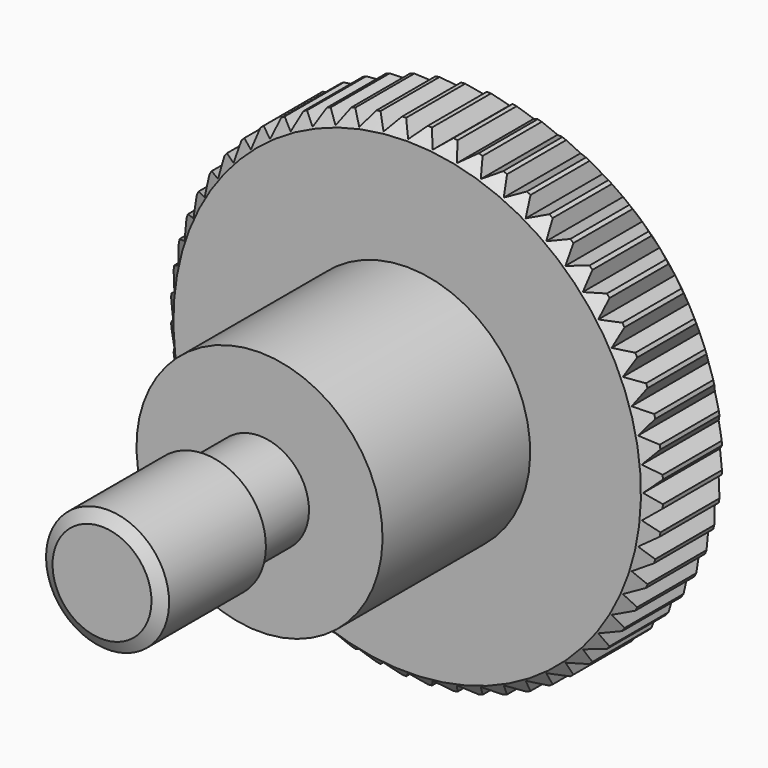
from build123d import *

# Parameters (mm, degrees)
POCKET_DEPTH       = 88.210534
POLARPATTERN_COUNT = 60


with BuildPart() as part:
    # Sketch → Revolution (revolve)
    with BuildSketch(Plane.YZ):
        Polygon((0, 0), (0, 2.01), (0.282902, 2.5), (5.2, 2.5), (5.482902, 2.01), (8, 2.01), (8, 5), (15.5, 5), (15.5, 9.5), (16, 10), (19, 10), (19.5, 9.5), (19.5, 0), align=None)
    revolve(axis=Axis((0, 0, 0), (0, 1, 0)))

    # Sketch001 → Pocket (cut, through all)
    with BuildSketch(Plane.ZX.offset(19.5)):
        Polygon((-0.5, 10.05), (0, 9.55), (0.5, 10.05), align=None)
    pocket = extrude(amount=-POCKET_DEPTH, mode=Mode.SUBTRACT)

    # PolarPattern: Pocket ×60 about axis
    polarpattern_axis = Axis((0, 19.5, 0), (0, 1, 0))
    for i in range(1, POLARPATTERN_COUNT):
        add(pocket.rotate(polarpattern_axis, i * 360 / POLARPATTERN_COUNT), mode=Mode.SUBTRACT)


solid = part.part
